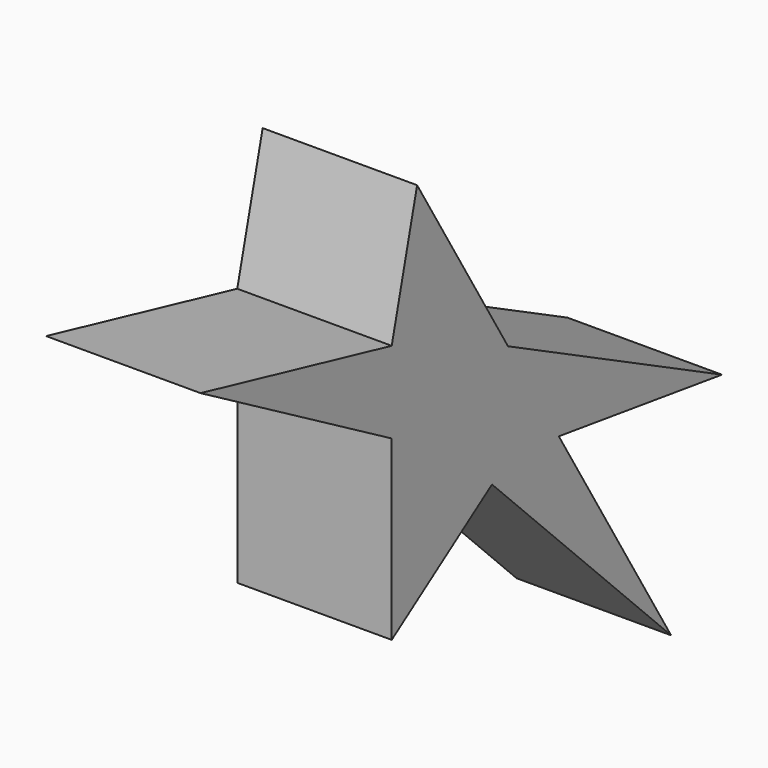
from build123d import *

# Parameters (mm, degrees)
F1_DEPTH = 50.8


with BuildPart() as f1:
    # F0 (on Right) → F1 (new body)
    with BuildSketch(Plane.YZ):
        Polygon((0, 58.321822), (0, 0), (41.221242, 28.256854), (114.869855, -45.376718), (68.702079, 31.017145), (135.755301, 21.60695), (47.816634, 65.576285), (10.442711, 127.418935), (0, 85.152954), (-78.595169, 103.396483), align=None)
    extrude(amount=-F1_DEPTH)


solid = f1.part
